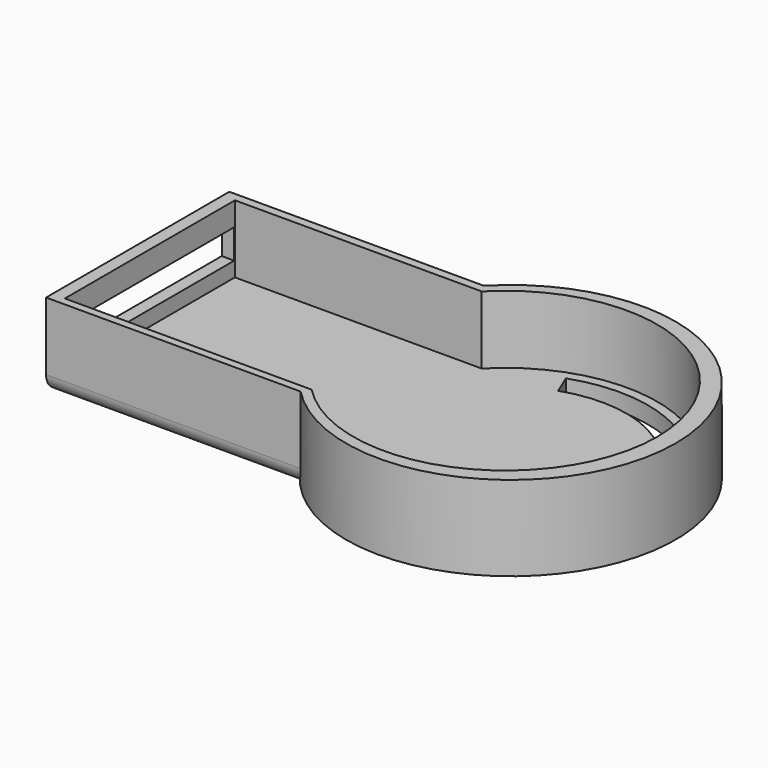
from build123d import *

# Parameters (mm, degrees)
PAD_DEPTH       = 5
POCKET_DEPTH    = 4
POCKET004_DEPTH = 5
FILLET_R        = 1
FILLET001_R     = 1
FILLET002_R     = 0.3
FILLET003_R     = 0.3
SKETCH012_W     = 12.408569
SKETCH012_H     = 1.7372
POCKET007_DEPTH = 2


with BuildPart() as part:
    # Sketch → Pad (new body)
    with BuildSketch(Plane.XY):
        with BuildLine():
            Line((-10.302154, -6.75), (-10.302154, 6.75))
            Line((-10.302154, 6.75), (4.697846, 6.75))
            ThreePointArc((4.697846, -6.75), (21.401934, 0), (4.697846, 6.75))
            Line((-10.302154, -6.75), (4.697846, -6.75))
        make_face()
    extrude(amount=PAD_DEPTH)

    # Sketch001 (on Face6 of Pad) → Pocket (cut)
    with BuildSketch(Plane.XY.offset(5)):
        with BuildLine():
            Line((-9.568426, -6.285917), (4.972526, -6.285917))
            ThreePointArc((4.972526, -6.285917), (20.334041, -0.01843), (4.970857, 6.244966))
            Line((-9.568426, 6.244966), (4.970857, 6.244966))
            Line((-9.568426, -6.285917), (-9.568426, 6.244966))
        make_face()
    extrude(amount=-POCKET_DEPTH, mode=Mode.SUBTRACT)

    # Sketch010 (on Face11 of Pocket) → Pocket004 (cut)
    with BuildSketch(Plane.XY.offset(1)):
        with BuildLine():
            ThreePointArc((16.954988, 6.278391), (13.004004, 8.225263), (8.611476, 7.899254))
            Line((8.611476, 7.899254), (9.109037, 6.707427))
            ThreePointArc((16.036381, 5.369056), (12.751013, 6.961134), (9.109037, 6.707427))
            Line((16.954988, 6.278391), (16.036381, 5.369056))
        make_face()
        with BuildLine():
            ThreePointArc((8.677646, -7.709712), (12.991395, -8.023159), (16.861761, -6.092627))
            Line((15.900234, -5.234123), (16.861761, -6.092627))
            ThreePointArc((9.154517, -6.521003), (12.69888, -6.776571), (15.900234, -5.234123))
            Line((8.677646, -7.709712), (9.154517, -6.521003))
        make_face()
    extrude(amount=-POCKET004_DEPTH, mode=Mode.SUBTRACT)

    # Fillet
    fillet_edges = [part.edges().sort_by_distance(p)[0] for p in [
        (-2.802154, -6.75, 0),
    ]]
    fillet(fillet_edges, radius=FILLET_R)

    # Fillet001
    fillet001_edges = [part.edges().sort_by_distance(p)[0] for p in [
        (-2.802154, 6.75, 0),
    ]]
    fillet(fillet001_edges, radius=FILLET001_R)

    # Fillet002
    fillet002_edges = [part.edges().sort_by_distance(p)[0] for p in [
        (12.751013, 6.961134, 0),
    ]]
    fillet(fillet002_edges, radius=FILLET002_R)

    # Fillet003
    fillet003_edges = [part.edges().sort_by_distance(p)[0] for p in [
        (12.69888, -6.776571, 0),
    ]]
    fillet(fillet003_edges, radius=FILLET003_R)

    # Sketch012 (on Face10 of Fillet003) → Pocket007 (cut)
    with BuildSketch(Plane(origin=(-10.302154, 0, 0), x_dir=(0, -1, 0), z_dir=(-1, 0, 0))):
        with Locations((0.011792, 2.757287)):
            Rectangle(SKETCH012_W, SKETCH012_H)
    extrude(amount=-POCKET007_DEPTH, mode=Mode.SUBTRACT)


solid = part.part
